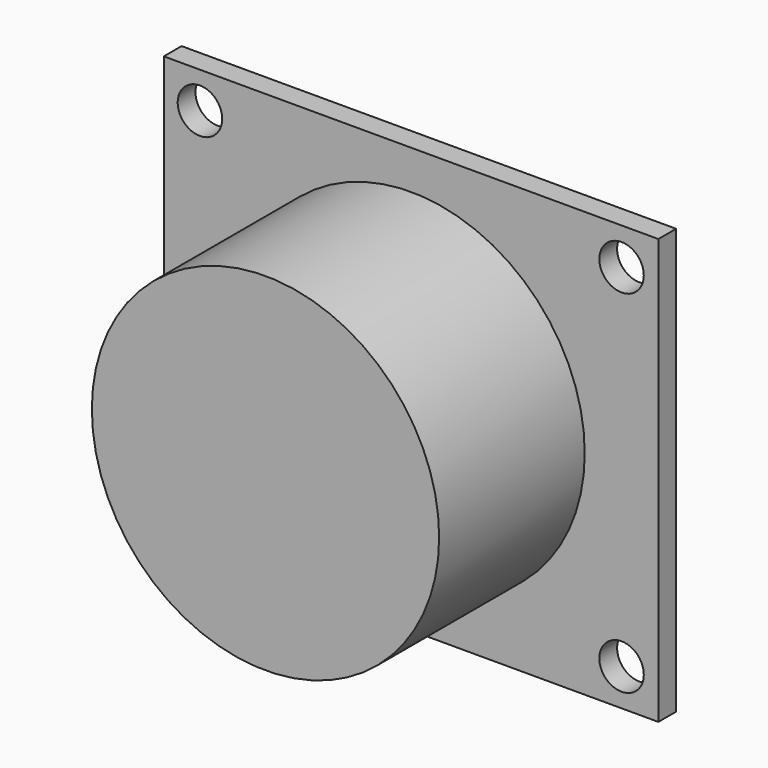
from build123d import *

# Parameters (mm, degrees)
F0_W     = 35.6
F0_H     = 30.6
F0_R     = 1.6
F1_DEPTH = 1.6
F2_R     = 12.5
F3_DEPTH = 13.1
F4_W     = 8
F4_H     = 8.6
F5_DEPTH = 9.2


with BuildPart() as f1:
    # F0 (on Front) → F1 (new body)
    with BuildSketch(Plane.XZ):
        Rectangle(F0_W, F0_H)
        with Locations((-15.2, -12.7)):
            Circle(F0_R, mode=Mode.SUBTRACT)
        with Locations((15.15, -12.65)):
            Circle(F0_R, mode=Mode.SUBTRACT)
        with Locations((-15.2, 12.7)):
            Circle(F0_R, mode=Mode.SUBTRACT)
        with Locations((15.15, 12.65)):
            Circle(F0_R, mode=Mode.SUBTRACT)
    extrude(amount=F1_DEPTH)

    # F2 (on face) → F3 (join)
    with BuildSketch(Plane.XZ.offset(1.6)):
        Circle(F2_R)
    extrude(amount=F3_DEPTH)

    # F4 (on face) → F5 (join)
    with BuildSketch(Plane(origin=(0, 0, 0), x_dir=(-1, 0, 0), z_dir=(0, 1, 0))):
        with Locations((0.2, -5)):
            Rectangle(F4_W, F4_H)
    extrude(amount=F5_DEPTH)


solid = f1.part
